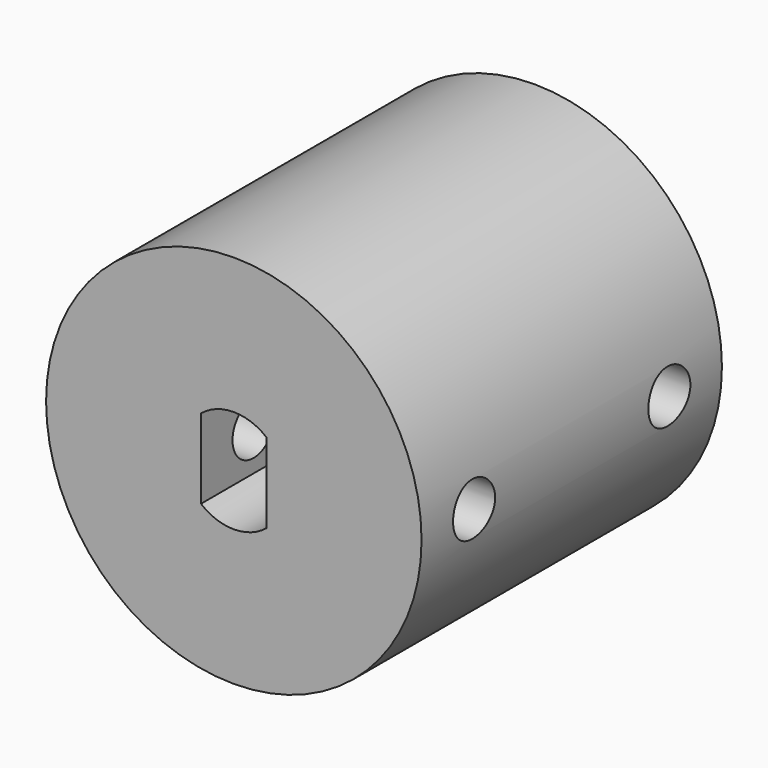
from build123d import *

# Parameters (mm, degrees)
F0_R     = 10
F1_DEPTH = 20
F3_DEPTH = 8
F4_R     = 3.1
F5_DEPTH = 7
F6_R     = 1.4
F7_DEPTH = 12.5


with BuildPart() as f1:
    # F0 (on Front) → F1 (new body)
    with BuildSketch(Plane.XZ):
        Circle(F0_R)
    extrude(amount=F1_DEPTH)

    # F2 (on face) → F3 (cut)
    with BuildSketch(Plane.XZ.offset(20)):
        with BuildLine():
            Line((1.75, -2.12132), (1.75, 2.12132))
            ThreePointArc((1.75, 2.12132), (0, 2.75), (-1.75, 2.12132))
            Line((-1.75, 2.12132), (-1.75, -2.12132))
            ThreePointArc((-1.75, -2.12132), (0, -2.75), (1.75, -2.12132))
        make_face()
    extrude(amount=-F3_DEPTH, mode=Mode.SUBTRACT)

    # F4 (on face) → F5 (cut)
    with BuildSketch(Plane(origin=(0, 0, 0), x_dir=(-1, 0, 0), z_dir=(0, 1, 0))):
        Circle(F4_R)
    extrude(amount=-F5_DEPTH, mode=Mode.SUBTRACT)

    # F6 (on Right) → F7 (cut, symmetric)
    with BuildSketch(Plane.YZ):
        with Locations((-3.5, 0)):
            Circle(F6_R)
        with Locations((-16.5, 0)):
            Circle(F6_R)
    extrude(amount=F7_DEPTH, both=True, mode=Mode.SUBTRACT)


solid = f1.part
